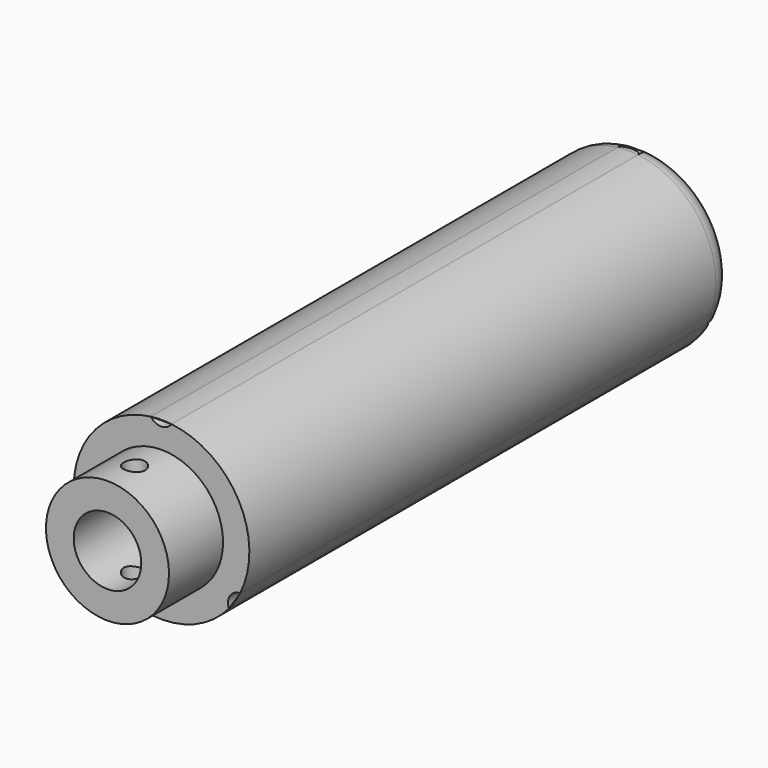
from build123d import *

# Parameters (mm, degrees)
F0_R      = 8.65
F0_R_2    = 4.75
F1_DEPTH  = 9.5
F2_R      = 12.35
F3_DEPTH  = 85
F4_R      = 4.75
F5_DEPTH  = 30
F6_R      = 3
F7_R      = 2.2089362083
F8_DEPTH  = 0.5
F9_R      = 0.9712597181
F10_DEPTH = 0.5
F12_DEPTH = 100
F13_R     = 1.5
F14_DEPTH = 50


with BuildPart() as f1:
    # F0 (on Front) → F1 (new body)
    with BuildSketch(Plane.XZ):
        Circle(F0_R)
        Circle(F0_R_2, mode=Mode.SUBTRACT)
        Circle(F0_R_2)
    extrude(amount=-F1_DEPTH)

    # F2 (on face) → F3 (join)
    with BuildSketch(Plane(origin=(0, 9.5, 0), x_dir=(-1, 0, 0), z_dir=(0, 1, 0))):
        Circle(F2_R)
    extrude(amount=F3_DEPTH)

    # F4 (on face) → F5 (cut)
    with BuildSketch(Plane.XZ):
        Circle(F4_R)
    extrude(amount=-F5_DEPTH, mode=Mode.SUBTRACT)

    # F6
    f6_edges = [f1.edges().sort_by_distance(p)[0] for p in [
        (12.35, 94.5, 0),
    ]]
    fillet(f6_edges, radius=F6_R)

    # F7 (on face) → F8 (cut)
    with BuildSketch(Plane(origin=(0, 94.5, 0), x_dir=(-1, 0, 0), z_dir=(0, 1, 0))):
        Circle(F7_R)
    extrude(amount=-F8_DEPTH, mode=Mode.SUBTRACT)

    # F9 (on face) → F10 (cut)
    with BuildSketch(Plane(origin=(0, 94, 0), x_dir=(-1, 0, 0), z_dir=(0, 1, 0))):
        Circle(F9_R)
    extrude(amount=-F10_DEPTH, mode=Mode.SUBTRACT)

    # F11 (on face) → F12 (cut)
    with BuildSketch(Plane.XZ.offset(-9.5)):
        with BuildLine():
            Line((1.3943195239, 12.2710379783), (-1.4912584729, 12.2596349117))
            ThreePointArc((-1.4912584729, 12.2596349117), (-0.0454618315, 11.5042439534), (1.3943195239, 12.2710379783))
        make_face()
        with BuildLine():
            Line((9.4725158679, -7.9242629394), (11.0546471813, -5.5061125757))
            ThreePointArc((11.0546471813, -5.5061125757), (9.6241530869, -6.2968267783), (9.4725158679, -7.9242629394))
        make_face()
        with BuildLine():
            ThreePointArc((-10.145604716, -7.0419603057), (-10.0757006279, -5.2946209032), (-11.5543855714, -4.3610404798))
            ThreePointArc((-11.5543855714, -4.3610404798), (-10.9324849598, -5.744847483), (-10.145604716, -7.0419603057))
        make_face()
    extrude(amount=-F12_DEPTH, mode=Mode.SUBTRACT)

    # F13 (on Top) → F14 (cut, symmetric)
    with BuildSketch(Plane.XY):
        with Locations((0, 4.75)):
            Circle(F13_R)
    extrude(amount=F14_DEPTH, both=True, mode=Mode.SUBTRACT)


solid = f1.part
